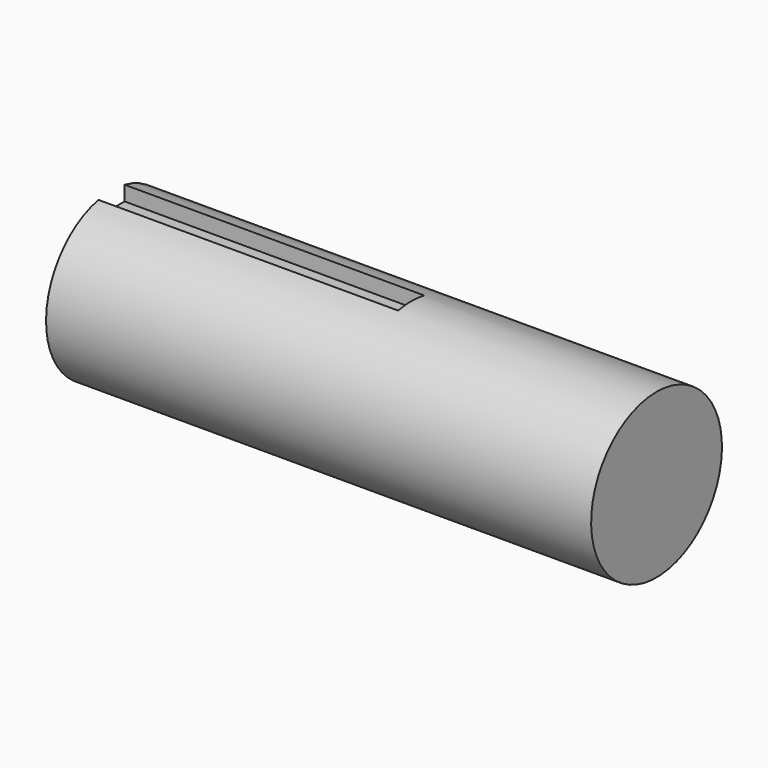
from build123d import *

# Parameters (mm, degrees)
F0_W     = 100
F0_H     = 15
F3_DEPTH = 55


with BuildPart() as f1:
    # F0 (on Front) → F1 (revolve)
    with BuildSketch(Plane.XZ):
        with Locations((0, 7.5)):
            Rectangle(F0_W, F0_H)
    revolve(axis=Axis((0, 0, 0), (1, 0, 0)))

    # F2 (on face) → F3 (cut)
    with BuildSketch(Plane(origin=(-50, 0, 0), x_dir=(0, -1, 0), z_dir=(-1, 0, 0))):
        with BuildLine():
            Line((3, 12), (3, 14.6969384567))
            ThreePointArc((3, 14.6969384567), (0, 15), (-3, 14.6969384567))
            Line((-3, 14.6969384567), (-3, 12))
            Line((-3, 12), (3, 12))
        make_face()
    extrude(amount=-F3_DEPTH, mode=Mode.SUBTRACT)


solid = f1.part
